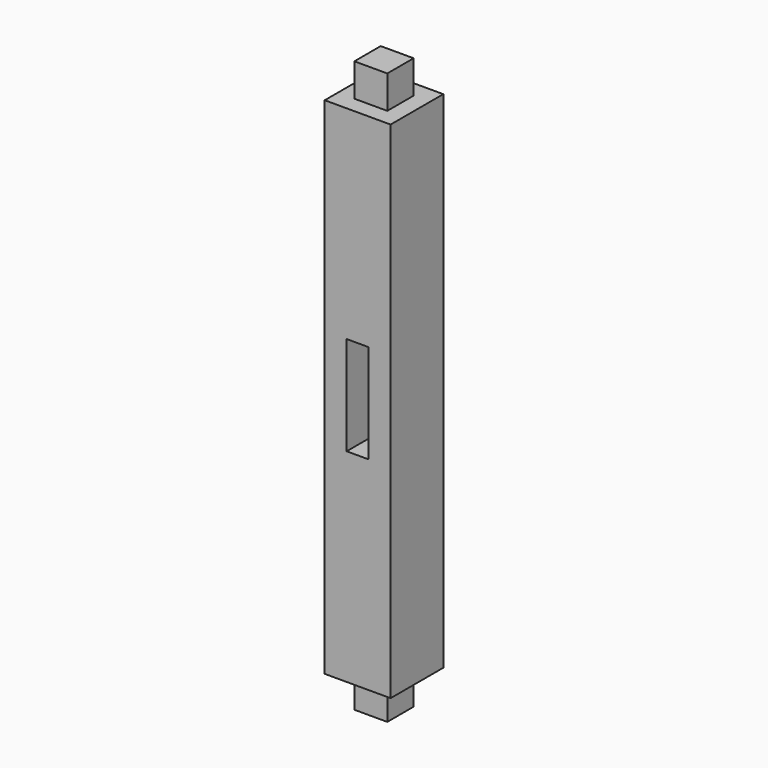
from build123d import *

# Parameters (mm, degrees)
F0_W     = 76.2
F0_H     = 76.2
F1_DEPTH = 584.2
F3_DEPTH = 38.1
F4_W     = 38.1
F4_H     = 38.1
F5_DEPTH = 38.1
F6_W     = 25.4
F6_H     = 114.3
F7_DEPTH = 76.201


with BuildPart() as f1:
    # F0 (on Top) → F1 (new body)
    with BuildSketch(Plane.XY):
        Rectangle(F0_W, F0_H)
    extrude(amount=F1_DEPTH)

    # F2 (on face) → F3 (join)
    with BuildSketch(Plane.XY.offset(584.2)):
        Polygon((-19.05, -19.05), (19.05, -19.05), (-19.05, 19.05), align=None)
        Polygon((-19.05, 19.05), (19.05, -19.05), (19.05, 19.05), align=None)
    extrude(amount=F3_DEPTH)

    # F4 (on face) → F5 (join)
    with BuildSketch(Plane(origin=(0, 0, 0), x_dir=(1, 0, 0), z_dir=(0, 0, -1))):
        Rectangle(F4_W, F4_H)
    extrude(amount=F5_DEPTH)

    # F6 (on face) → F7 (cut, through all)
    with BuildSketch(Plane(origin=(0, 38.1, 0), x_dir=(-1, 0, 0), z_dir=(0, 1, 0))):
        with Locations((0, 292.1)):
            Rectangle(F6_W, F6_H)
    extrude(amount=-F7_DEPTH, mode=Mode.SUBTRACT)


solid = f1.part
